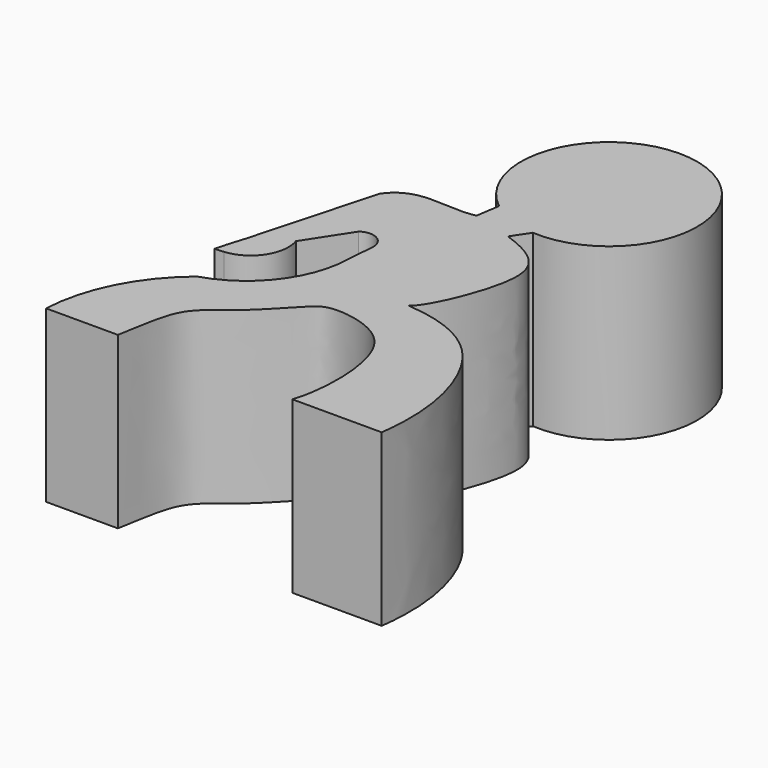
from build123d import *

# Parameters (mm, degrees)
F1_DEPTH = 25


with BuildPart() as f1:
    # F0 (on Top) → F1 (new body)
    with BuildSketch(Plane.XY):
        with BuildLine():
            ThreePointArc((19.2801989566, 29.4877570077), (15.7615253624, 21.6751466425), (8.5894693106, 16.986910666))
            ThreePointArc((8.5894693106, 16.986910666), (2.4947531013, 9.4036200252), (0, 0))
            Line((0, 0), (10.5349682271, 0))
            add(Edge.make_bspline(
                [(10.5349682271, 0), (11.105931155, 2.6194903291), (11.609049317, 9.7140045073), (17.4467370521, 12.7575176791), (22.9096103398, 19.0566540962), (24.9614081671, 20.5978465085), (29.4556638689, 20.4467125472), (37.5969536435, 17.0035284008), (37.5440217848, 4.1246412968), (36.1309349537, 0)],
                knots=[0, 0, 0, 0, 0.1608800501, 0.2975672627, 0.4493616304, 0.5320765568, 0.6392666155, 0.7877496125, 1, 1, 1, 1], degree=3))
            Line((36.1309349537, 0), (49.2538735271, 0))
            add(Edge.make_bspline(
                [(31.9554582238, 26.4774169773), (40.2781709108, 25.8469083807), (48.2995089052, 18.4280773445), (50.1337396114, 6.4297131631), (49.2538735271, 0)],
                knots=[0, 0, 0, 0, 0.4995794266, 1, 1, 1, 1], degree=3))
            add(Edge.make_bspline(
                [(31.9554582238, 26.4774169773), (33.32298356, 27.0244262551), (38.9179600405, 39.1833432434), (36.6028611169, 44.8108039036), (30.1659647375, 46.9969213009)],
                knots=[0, 0, 0, 0, 0.50795539, 1, 1, 1, 1], degree=3))
            Line((30.1659647375, 46.9969213009), (31.836155802, 49.5022088289))
            ThreePointArc((31.836155802, 49.5022088289), (37.3130534041, 74.498168744), (24.6781911701, 52.2460974753))
            Line((24.6781911701, 52.2460974753), (24.1441342906, 48.7770544229))
            add(Edge.make_bspline(
                [(12.0699045525, 46.0898235351), (15.0149352859, 50.3373034286), (20.1193910442, 47.881310794), (24.1441342906, 48.7770544229)],
                knots=[0, 0, 0, 0, 12.3696496964, 12.3696496964, 12.3696496964, 12.3696496964], degree=3))
            Line((12.0699045525, 46.0898235351), (7.0473597889, 27.7782059473))
            Line((7.0473597889, 27.7782059473), (6.29418949, 25.3428798244))
            Line((6.29418949, 25.3428798244), (5.8190694864, 23.5838141952))
            Line((5.8190694864, 23.5838141952), (7.1263574098, 23.688590162))
            ThreePointArc((7.1263574098, 23.688590162), (11.274887215, 26.1262666727), (11.932000518, 30.8928973929))
            Line((11.932000518, 30.8928973929), (16.0600062607, 37.2537732479))
            ThreePointArc((16.0600062607, 37.2537732479), (18.5485676073, 37.398785834), (19.7245021973, 35.2007994678))
            Line((19.7245021973, 35.2007994678), (19.2801989566, 29.4877570077))
        make_face()
    extrude(amount=F1_DEPTH)


solid = f1.part
